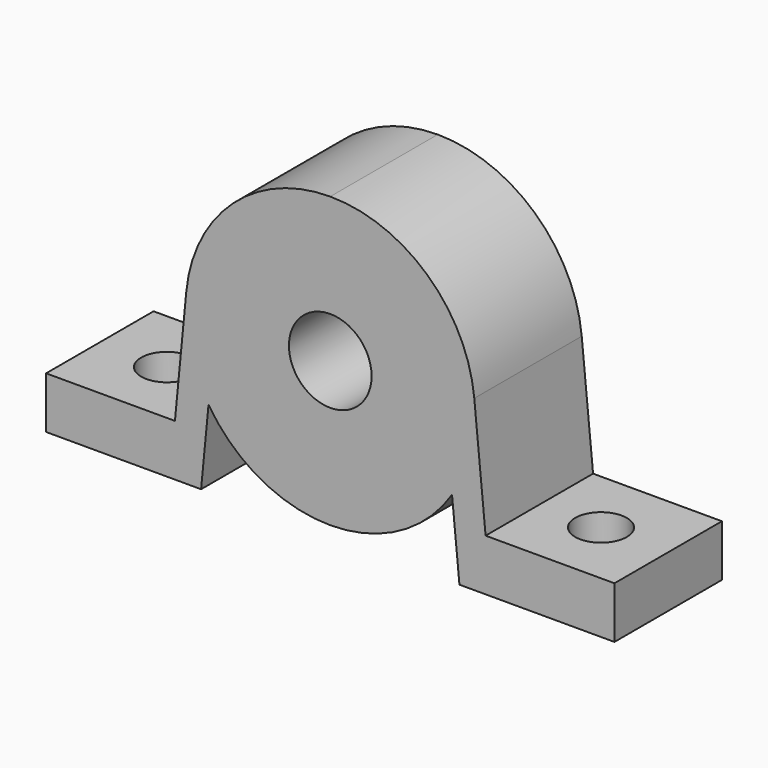
from build123d import *

# Parameters (mm, degrees)
F0_R     = 4
F1_DEPTH = 13
F2_R     = 2.5
F3_DEPTH = 29.001


with BuildPart() as f1:
    # F0 (on Front) → F1 (new body)
    with BuildSketch(Plane.XZ):
        with BuildLine():
            ThreePointArc((-11.781642, 7.4374), (-6.712809, 2.714309), (0, 1))
            ThreePointArc((0, 1), (6.712809, 2.714309), (11.781642, 7.4374))
            Line((11.781642, 7.4374), (12.5, 0))
            Line((12.5, 0), (27.5, 0))
            Line((27.5, 0), (27.5, 5))
            Line((27.5, 5), (15.031025, 5))
            Line((15.031025, 5), (13.93515, 16.345958))
            ThreePointArc((13.93515, 16.345958), (9.411604, 25.364444), (0, 29))
            ThreePointArc((0, 29), (-9.411604, 25.364444), (-13.93515, 16.345958))
            Line((-13.93515, 16.345958), (-15.031025, 5))
            Line((-15.031025, 5), (-27.5, 5))
            Line((-27.5, 5), (-27.5, 0))
            Line((-27.5, 0), (-12.5, 0))
            Line((-12.5, 0), (-11.781642, 7.4374))
        make_face()
        with Locations((0, 15)):
            Circle(F0_R, mode=Mode.SUBTRACT)
    extrude(amount=F1_DEPTH)

    # F2 (on face) → F3 (cut, through all)
    with BuildSketch(Plane(origin=(0, 0, 0), x_dir=(1, 0, 0), z_dir=(0, 0, -1))):
        with Locations((-21, 6.5)):
            Circle(F2_R)
        with Locations((21, 6.5)):
            Circle(F2_R)
    extrude(amount=-F3_DEPTH, mode=Mode.SUBTRACT)


solid = f1.part
